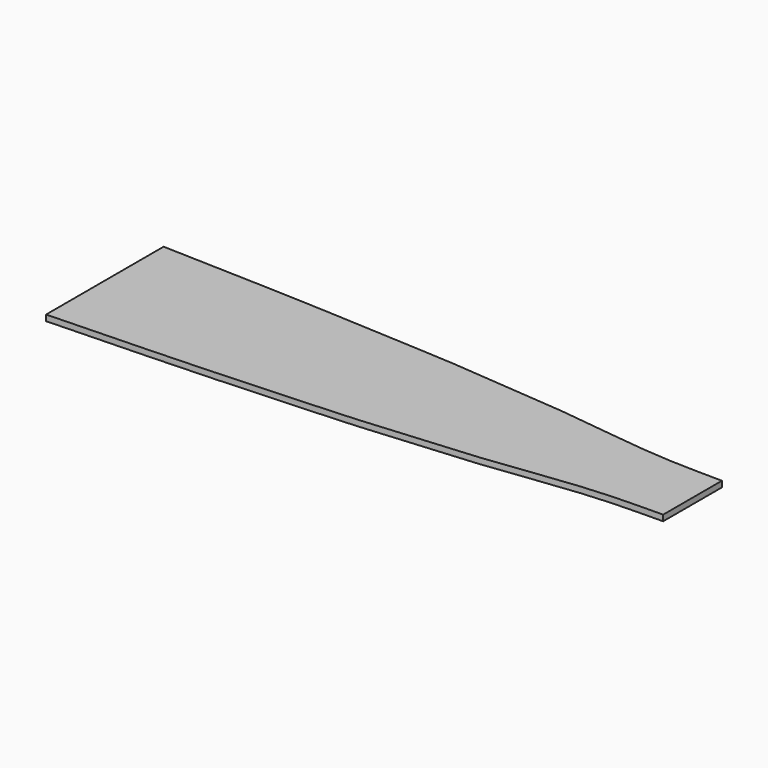
from build123d import *

# Parameters (mm, degrees)
F1_DEPTH = 2


with BuildPart() as f1:
    # F0 (on Top) → F1 (new body)
    with BuildSketch(Plane.XY):
        with BuildLine():
            add(Edge.make_bspline(
                [(0, 25), (6.677756, 24.75517), (19.992177, 24.255897), (40.007462, 23.77173), (60.006435, 22.856141), (79.992067, 21.60238), (100.032111, 20.934193), (119.984714, 18.853654), (140.052037, 17.649541), (159.97471, 14.932206), (179.943127, 12.634349), (193.338465, 12.574752), (200, 12.5)],
                knots=[0, 0, 0, 0, 20.012246, 40.021244, 60.041484, 80.071711, 100.096696, 120.168816, 140.232713, 160.376199, 180.47595, 200.482199, 200.482199, 200.482199, 200.482199], degree=3))
            Line((0, 25), (0, -25))
            add(Edge.make_bspline(
                [(0, -25), (6.677756, -24.75517), (19.992177, -24.255897), (40.007462, -23.77173), (60.006435, -22.856141), (79.992067, -21.60238), (100.032111, -20.934193), (119.984714, -18.853654), (140.052037, -17.649541), (159.97471, -14.932206), (179.943127, -12.634349), (193.338465, -12.574752), (200, -12.5)],
                knots=[0, 0, 0, 0, 20.012246, 40.021244, 60.041484, 80.071711, 100.096696, 120.168816, 140.232713, 160.376199, 180.47595, 200.482199, 200.482199, 200.482199, 200.482199], degree=3))
            Line((200, -12.5), (200, 12.5))
        make_face()
    extrude(amount=F1_DEPTH)


solid = f1.part
